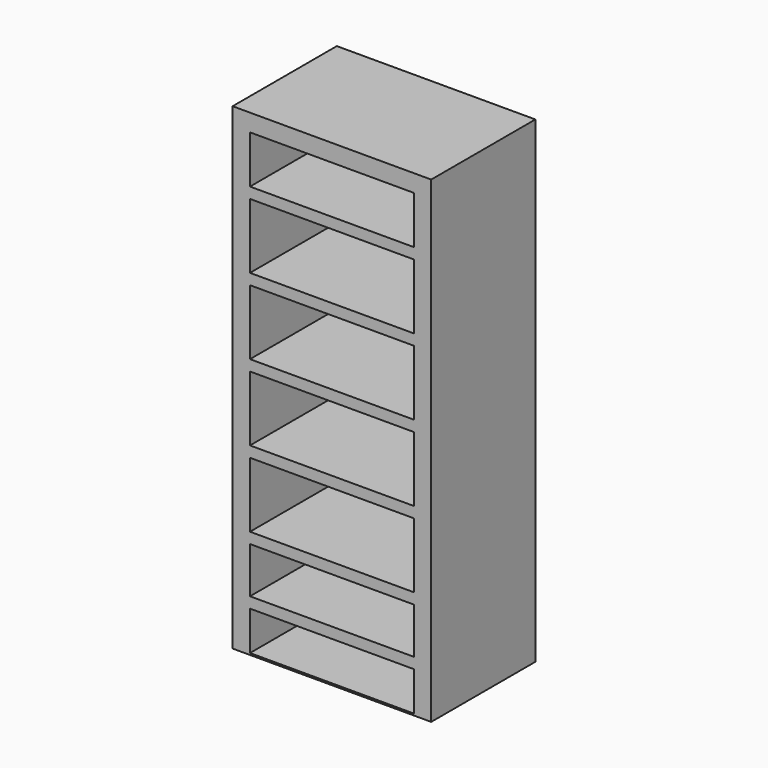
from build123d import *

# Parameters (mm, degrees)
F0_W     = 915
F0_H     = 2200
F1_DEPTH = 600
F2_W     = 755
F2_H     = 220
F2_H_2   = 300
F2_H_3   = 211.888492
F2_H_4   = 180.111508
F3_DEPTH = 600


with BuildPart() as f1:
    # F0 (on Front) → F1 (new body)
    with BuildSketch(Plane.XZ):
        Rectangle(F0_W, F0_H)
    extrude(amount=F1_DEPTH)

    # F2 (on face) → F3 (cut, through all)
    with BuildSketch(Plane.XZ.offset(600)):
        with Locations((0, 910)):
            Rectangle(F2_W, F2_H)
        with Locations((0, 600)):
            Rectangle(F2_W, F2_H_2)
        with Locations((0, 250)):
            Rectangle(F2_W, F2_H_2)
        with Locations((0, -100)):
            Rectangle(F2_W, F2_H_2)
        with Locations((0, -450)):
            Rectangle(F2_W, F2_H_2)
        with Locations((0, -755.944246)):
            Rectangle(F2_W, F2_H_3)
        with Locations((0, -1001.944246)):
            Rectangle(F2_W, F2_H_4)
    extrude(amount=-F3_DEPTH, mode=Mode.SUBTRACT)


solid = f1.part
